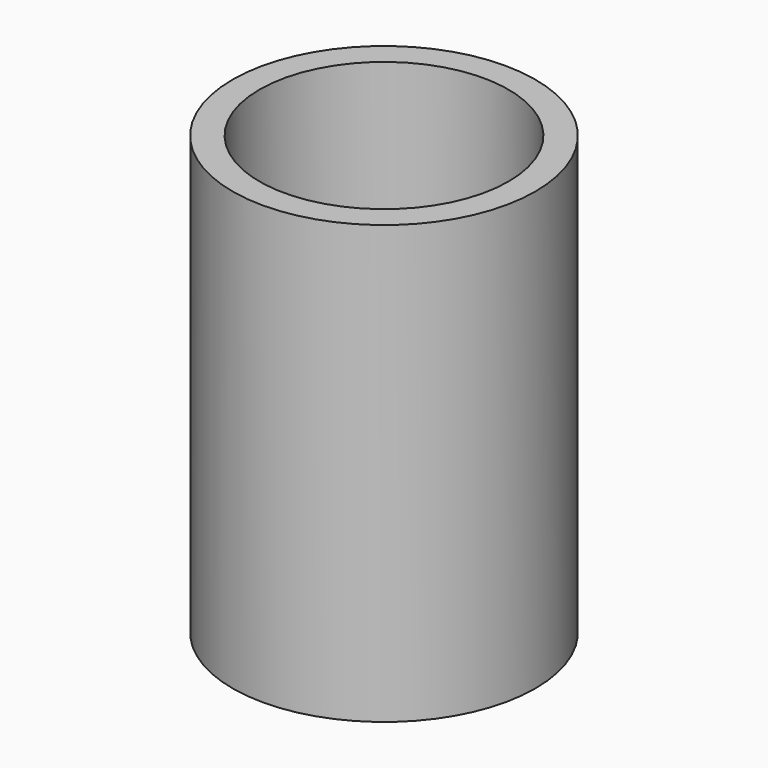
from build123d import *

# Parameters (mm, degrees)
SKETCH_R        = 22.5
PAD_DEPTH       = 65
SKETCH001_R     = 18.5
POCKET_DEPTH    = 22
SKETCH002_R     = 15.75
POCKET001_DEPTH = 43
CHAMFER_ANGLE   = 12.5
CHAMFER_SIZE    = 12


with BuildPart() as part:
    # Sketch → Pad (new body)
    with BuildSketch(Plane.XY):
        Circle(SKETCH_R)
    extrude(amount=PAD_DEPTH)

    # Sketch001 → Pocket (cut)
    with BuildSketch(Plane.XY.offset(65)):
        Circle(SKETCH001_R)
    extrude(amount=-POCKET_DEPTH, mode=Mode.SUBTRACT)

    # Sketch002 → Pocket001 (cut)
    with BuildSketch(Plane.XY):
        Circle(SKETCH002_R)
    extrude(amount=POCKET001_DEPTH, mode=Mode.SUBTRACT)

    # Chamfer
    chamfer_edges = [part.edges().sort_by_distance(p)[0] for p in [
        (-15.75, 0, 43),
    ]]
    chamfer_side = part.faces().sort_by_distance((-15.75, 0, 21.5))[0]
    chamfer(chamfer_edges, length=CHAMFER_SIZE, angle=CHAMFER_ANGLE, reference=chamfer_side)


solid = part.part
